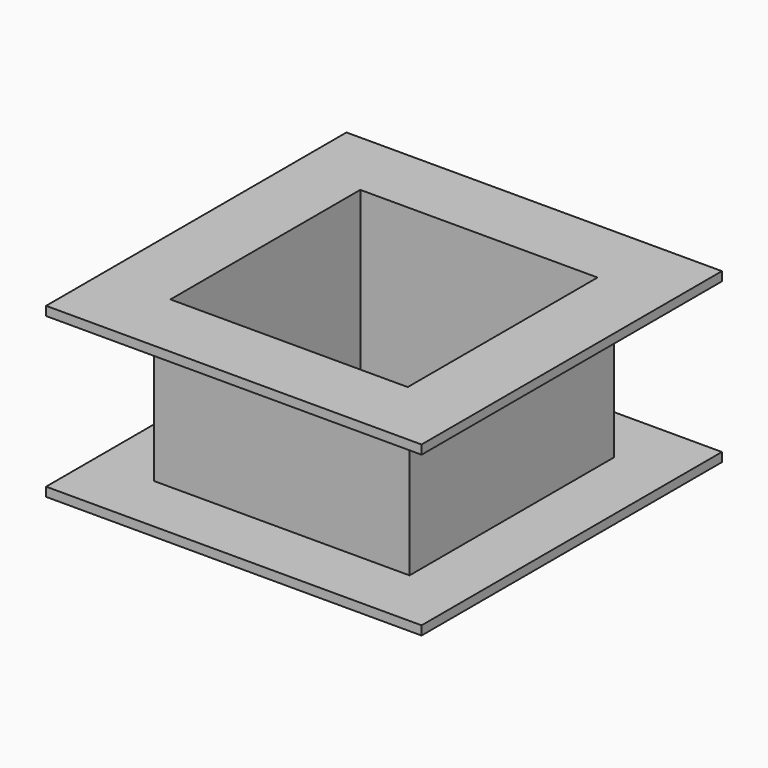
from build123d import *

# Parameters (mm, degrees)
F0_W     = 2159
F0_H     = 2159
F0_W_2   = 2006.6
F0_H_2   = 2006.6
F1_DEPTH = 1270
F2_W     = 3175
F2_H     = 3175
F2_W_2   = 2006.6
F2_H_2   = 2006.6
F3_DEPTH = 76.2
F4_W     = 3175
F4_H     = 3175
F4_W_2   = 2006.6
F4_H_2   = 2006.6
F5_DEPTH = 76.2


with BuildPart() as f1:
    # F0 (on Top) → F1 (new body)
    with BuildSketch(Plane.XY):
        with Locations((1079.5, 1079.5)):
            Rectangle(F0_W, F0_H)
        with Locations((1079.5, 1079.5)):
            Rectangle(F0_W_2, F0_H_2, mode=Mode.SUBTRACT)
    extrude(amount=F1_DEPTH)

    # F2 (on face) → F3 (join)
    with BuildSketch(Plane.XY.offset(1270)):
        with Locations((1079.5, 1079.5)):
            Rectangle(F2_W, F2_H)
        with Locations((1079.5, 1079.5)):
            Rectangle(F2_W_2, F2_H_2, mode=Mode.SUBTRACT)
    extrude(amount=F3_DEPTH)

    # F4 (on face) → F5 (join)
    with BuildSketch(Plane(origin=(0, 0, 0), x_dir=(1, 0, 0), z_dir=(0, 0, -1))):
        with Locations((1079.5, -1079.5)):
            Rectangle(F4_W, F4_H)
        with Locations((1079.5, -1079.5)):
            Rectangle(F4_W_2, F4_H_2, mode=Mode.SUBTRACT)
    extrude(amount=F5_DEPTH)


solid = f1.part
